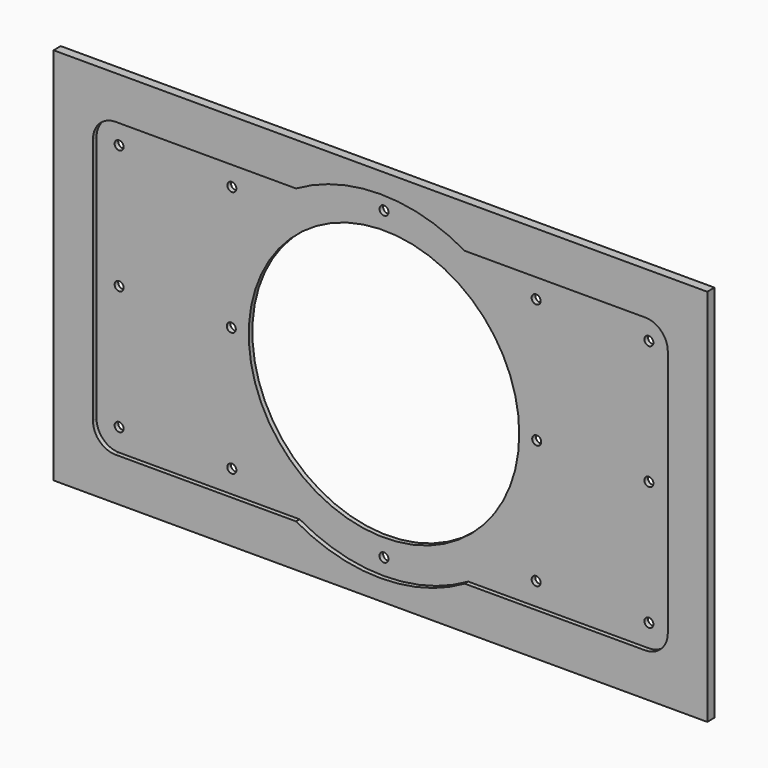
from build123d import *

# Parameters (mm, degrees)
F0_W     = 145
F0_H     = 84
F1_DEPTH = 2
F3_DEPTH = 1
F4_R     = 30
F5_DEPTH = 25
F6_R     = 1
F7_DEPTH = 25
F8_R     = 1
F9_DEPTH = 25
F10_R    = 5


with BuildPart() as f1:
    # F0 (on Front) → F1 (new body)
    with BuildSketch(Plane.XZ):
        Rectangle(F0_W, F0_H)
    extrude(amount=F1_DEPTH)

    # F2 (on face) → F3 (cut)
    with BuildSketch(Plane.XZ.offset(2)):
        with BuildLine():
            ThreePointArc((18.7082869339, -32.5), (32.4639088837, -18.7708449461), (37.5, 0))
            ThreePointArc((37.5, 0), (32.4639088837, 18.7708449461), (18.7082869339, 32.5))
            Line((18.7082869339, 32.5), (-18.7082869339, 32.5))
            ThreePointArc((-18.7082869339, 32.5), (-37.5, 0), (-18.7082869339, -32.5))
            Line((-18.7082869339, -32.5), (18.7082869339, -32.5))
        make_face()
        with BuildLine():
            ThreePointArc((18.7082869339, 32.5), (32.4639088837, 18.7708449461), (37.5, 0))
            ThreePointArc((37.5, 0), (32.4639088837, -18.7708449461), (18.7082869339, -32.5))
            Line((18.7082869339, -32.5), (63.75, -32.5))
            Line((63.75, -32.5), (63.75, 32.5))
            Line((63.75, 32.5), (18.7082869339, 32.5))
        make_face()
        with BuildLine():
            Line((-18.7082869339, 32.5), (18.7082869339, 32.5))
            ThreePointArc((18.7082869339, 32.5), (0, 37.5), (-18.7082869339, 32.5))
        make_face()
        with BuildLine():
            ThreePointArc((-18.7082869339, -32.5), (0, -37.5), (18.7082869339, -32.5))
            Line((18.7082869339, -32.5), (-18.7082869339, -32.5))
        make_face()
        with BuildLine():
            ThreePointArc((-18.7082869339, -32.5), (-37.5, 0), (-18.7082869339, 32.5))
            Line((-18.7082869339, 32.5), (-63.75, 32.5))
            Line((-63.75, 32.5), (-63.75, -32.5))
            Line((-63.75, -32.5), (-18.7082869339, -32.5))
        make_face()
    extrude(amount=-F3_DEPTH, mode=Mode.SUBTRACT)

    # F4 (on face) → F5 (cut)
    with BuildSketch(Plane.XZ.offset(1)):
        Circle(F4_R)
    extrude(amount=-F5_DEPTH, mode=Mode.SUBTRACT)

    # F6 (on face) → F7 (cut)
    with BuildSketch(Plane.XZ.offset(1)):
        with Locations((-58.75, 27.5)):
            Circle(F6_R)
        with Locations((-58.75, -27.5)):
            Circle(F6_R)
        with Locations((58.75, -27.5)):
            Circle(F6_R)
        with Locations((58.75, 27.5)):
            Circle(F6_R)
        with Locations((-58.75, 0)):
            Circle(F6_R)
        with Locations((58.75, 0)):
            Circle(F6_R)
        with Locations((-33.75, 27.5)):
            Circle(F6_R)
        with Locations((33.75, 27.5)):
            Circle(F6_R)
        with Locations((33.75, -27.5)):
            Circle(F6_R)
        with Locations((-33.75, -27.5)):
            Circle(F6_R)
    extrude(amount=-F7_DEPTH, mode=Mode.SUBTRACT)

    # F8 (on face) → F9 (cut)
    with BuildSketch(Plane.XZ.offset(1)):
        with Locations((0, 33.875)):
            Circle(F8_R)
        with Locations((33.875, 0)):
            Circle(F8_R)
        with Locations((-33.875, 0)):
            Circle(F8_R)
        with Locations((0, -33.875)):
            Circle(F8_R)
    extrude(amount=-F9_DEPTH, mode=Mode.SUBTRACT)

    # F10
    f10_edges = [f1.edges().sort_by_distance(p)[0] for p in [
        (-63.75, -1.5, 32.5),
        (-63.75, -1.5, -32.5),
        (63.75, -1.5, 32.5),
        (63.75, -1.5, -32.5),
    ]]
    fillet(f10_edges, radius=F10_R)


solid = f1.part
